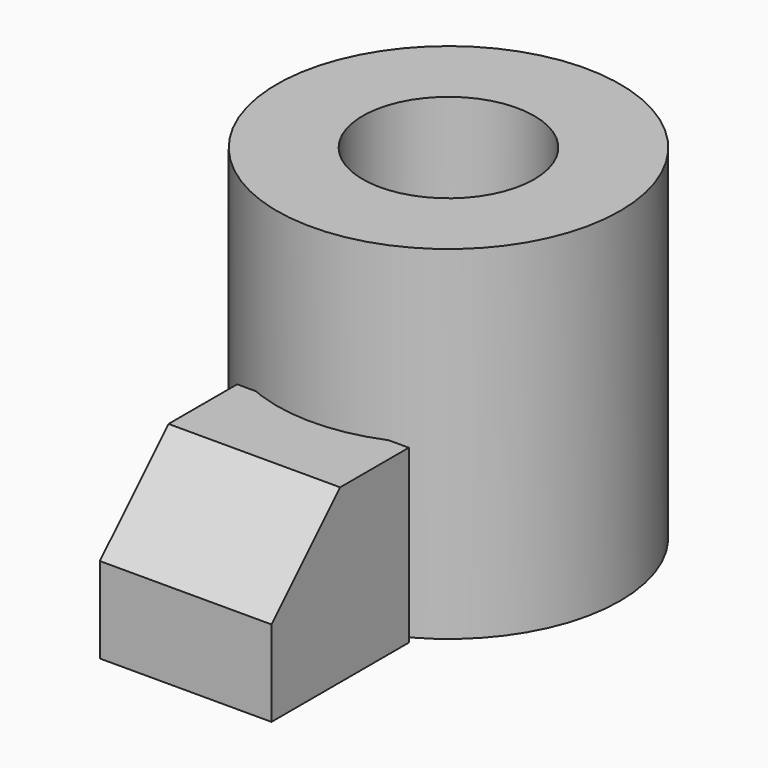
from build123d import *

# Parameters (mm, degrees)
F2_DEPTH = 12.7
F0_R     = 12.7
F0_R_2   = 6.35
F3_DEPTH = 25.4


with BuildPart() as f2:
    # F1 (on Right) → F2 (new body)
    with BuildSketch(Plane.YZ):
        Polygon((-12.7, 0), (-12.7, 12.7), (-19.05, 12.7), (-25.4, 6.35), (-25.4, 0), align=None)
    extrude(amount=F2_DEPTH)


with BuildPart() as f3:
    # F0 (on Top) → F3 (new body)
    with BuildSketch(Plane.XY):
        with Locations((6.271732, -0.993921)):
            Circle(F0_R)
        with Locations((6.271732, -0.993921)):
            Circle(F0_R_2, mode=Mode.SUBTRACT)
    extrude(amount=F3_DEPTH)


solid = Compound([f2.part, f3.part])
